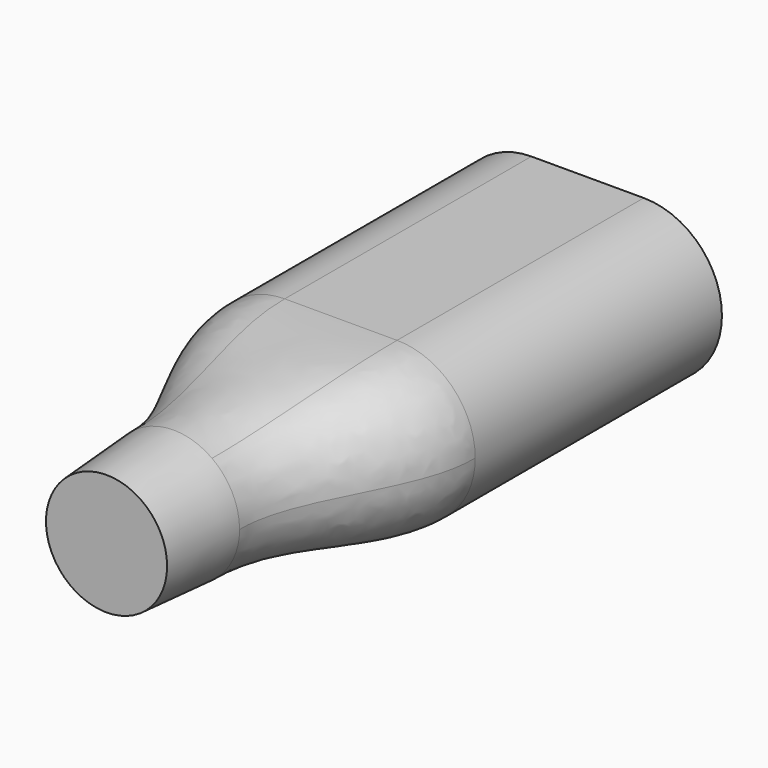
from build123d import *

# Parameters (mm, degrees)
SKETCH008_R        = 3
SKETCH012_R        = 3
SKETCH010_R        = 2.75
PAD019_DEPTH       = 14
BODY010_ROLL_ANGLE = 90


with BuildPart() as part:
    # Sketch009 → AdditiveLoft section 0
    with BuildSketch(Plane.XY.offset(14)):
        with BuildLine():
            ThreePointArc((-2.55, 3.55), (-6.1, 0), (-2.55, -3.55))
            Line((-2.55, -3.55), (2.55, -3.55))
            ThreePointArc((2.55, -3.55), (6.1, 0), (2.55, 3.55))
            Line((-2.55, 3.55), (2.55, 3.55))
        make_face()
    # Sketch011 → AdditiveLoft section 1
    with BuildSketch(Plane.XY.offset(14.2)):
        with BuildLine():
            ThreePointArc((-2.55, 3.55), (-6.1, 0), (-2.55, -3.55))
            Line((-2.55, -3.55), (2.55, -3.55))
            ThreePointArc((2.55, -3.55), (6.1, 0), (2.55, 3.55))
            Line((-2.55, 3.55), (2.55, 3.55))
        make_face()
    # Sketch008 → AdditiveLoft section 2
    with BuildSketch(Plane.XY.offset(23.3)):
        Circle(SKETCH008_R)
    # Sketch012 → AdditiveLoft section 3
    with BuildSketch(Plane.XY.offset(23.5)):
        Circle(SKETCH012_R)
    loft()

    # Sketch012 → AdditiveLoft001 section 0
    with BuildSketch(Plane.XY.offset(23.5)):
        Circle(SKETCH012_R)
    # Sketch010 → AdditiveLoft001 section 1
    with BuildSketch(Plane.XY.offset(27.3)):
        Circle(SKETCH010_R)
    loft()

    # Sketch009 → Pad019 (new body)
    with BuildSketch(Plane.XY.offset(14)):
        with BuildLine():
            ThreePointArc((-2.55, 3.55), (-6.1, 0), (-2.55, -3.55))
            Line((-2.55, -3.55), (2.55, -3.55))
            ThreePointArc((2.55, -3.55), (6.1, 0), (2.55, 3.55))
            Line((-2.55, 3.55), (2.55, 3.55))
        make_face()
    extrude(amount=-PAD019_DEPTH)


with BuildPart() as part_1:
    # Body010 roll: moved
    add(part.part.rotate(Axis((0, 0, 0), (1, 0, 0)), BODY010_ROLL_ANGLE))


with BuildPart() as part_2:
    # Body010 placement: moved
    add(part_1.part.moved(Location((0, -6.65, 0))))


solid = part_2.part
